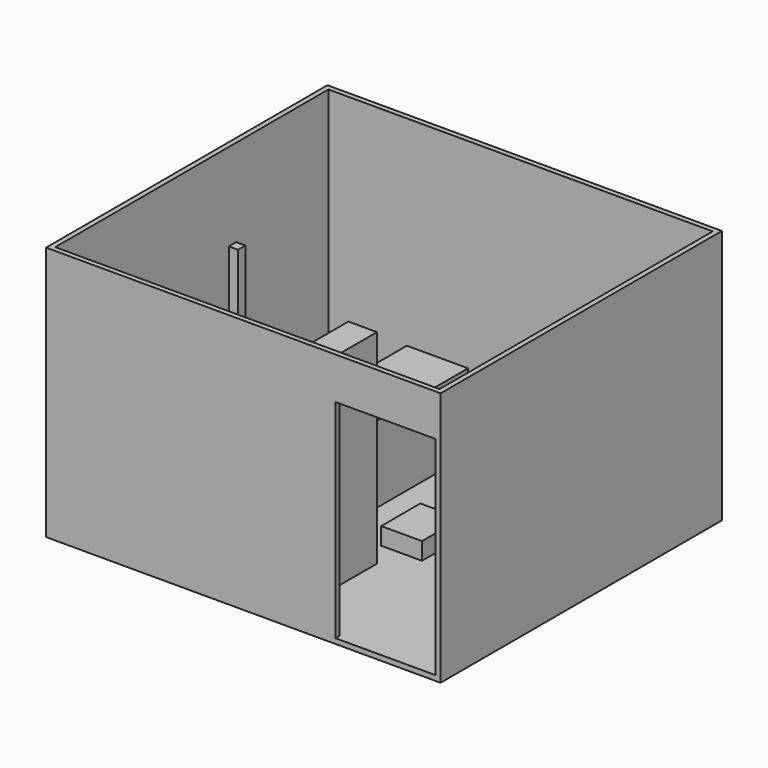
from build123d import *

# Parameters (mm, degrees)
F0_W      = 387
F0_H      = 345
F1_DEPTH  = 250
F2_W      = 377
F2_H      = 335
F3_DEPTH  = 245
F4_W      = 98
F4_H      = 204
F5_DEPTH  = 25
F6_W      = 9
F6_H      = 9
F7_DEPTH  = 245
F8_W      = 60
F8_H      = 120
F9_DEPTH  = 75
F10_W     = 120
F10_H     = 23.8507700859
F11_DEPTH = 75
F12_W     = 40
F12_H     = 48
F13_DEPTH = 17
F14_W     = 28
F14_H     = 60
F15_DEPTH = 200
F16_W     = 66
F16_H     = 92
F16_W_2   = 9
F16_H_2   = 9
F17_DEPTH = 147


with BuildPart() as f1:
    # F0 (on Top) → F1 (new body)
    with BuildSketch(Plane.XY):
        with Locations((-193.5, 172.5)):
            Rectangle(F0_W, F0_H)
    extrude(amount=F1_DEPTH)

    # F2 (on face) → F3 (cut)
    with BuildSketch(Plane.XY.offset(250)):
        with Locations((-193.5, 172.5)):
            Rectangle(F2_W, F2_H)
    extrude(amount=-F3_DEPTH, mode=Mode.SUBTRACT)

    # F4 (on face) → F5 (cut)
    with BuildSketch(Plane(origin=(0, 5, 0), x_dir=(-1, 0, 0), z_dir=(0, 1, 0))):
        with Locations((54, 107)):
            Rectangle(F4_W, F4_H)
    extrude(amount=-F5_DEPTH, mode=Mode.SUBTRACT)

    # F6 (on face) → F7 (join)
    with BuildSketch(Plane.XY.offset(5)):
        with Locations((-274.5, 93.5)):
            Rectangle(F6_W, F6_H)
    extrude(amount=F7_DEPTH)

    # F8 (on face) → F9 (join)
    with BuildSketch(Plane.XY.offset(5)):
        with Locations((-243.4864774462, 240.5474260449)):
            Rectangle(F8_W, F8_H)
    extrude(amount=F9_DEPTH)

    # F10 (on face) → F11 (join)
    with BuildSketch(Plane.XY.offset(5)):
        with Locations((-110.3469633506, 351.925385043)):
            Rectangle(F10_W, F10_H)
    extrude(amount=F11_DEPTH)

    # F14 (on face) → F15 (join)
    with BuildSketch(Plane.XY.offset(5)):
        with Locations((-169.5094383758, 86.3268319517)):
            Rectangle(F14_W, F14_H)
    extrude(amount=F15_DEPTH)

    # F16 (on face) → F17 (join)
    with BuildSketch(Plane.XY.offset(5)):
        with Locations((-279.4643215769, 66.0552727059)):
            Rectangle(F16_W, F16_H)
        with Locations((-274.5, 93.5)):
            Rectangle(F16_W_2, F16_H_2, mode=Mode.SUBTRACT)
    extrude(amount=F17_DEPTH)


with BuildPart() as f13:
    # F12 (on face) → F13 (new body)
    with BuildSketch(Plane.XY.offset(5)):
        with Locations((-151.5231286956, 165.648837626)):
            Rectangle(F12_W, F12_H)
    extrude(amount=F13_DEPTH)


solid = Compound([f1.part, f13.part])
